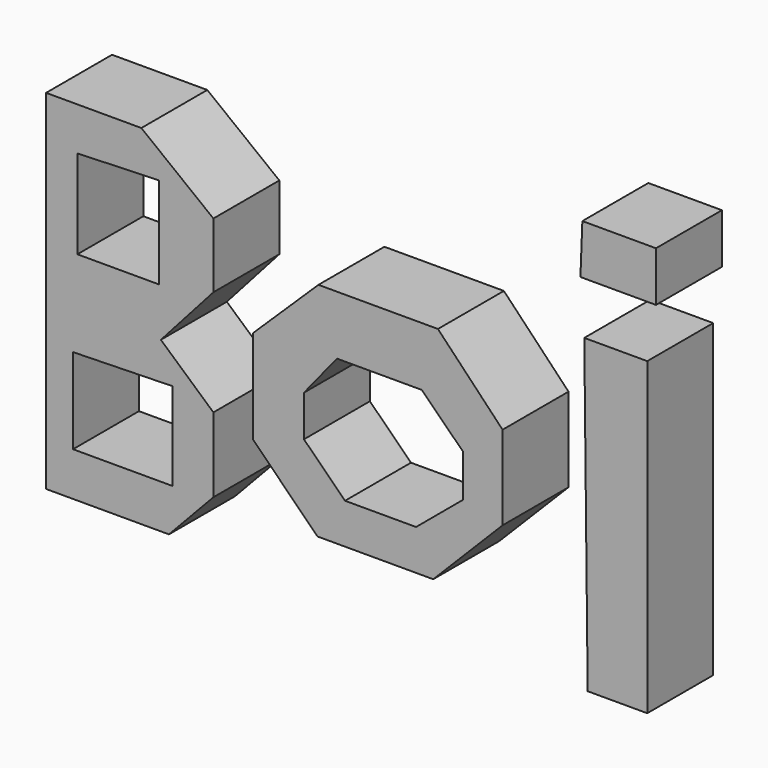
from build123d import *

# Parameters (mm, degrees)
F1_DEPTH = 50.8


with BuildPart() as f1:
    # F0 (on Front) → F1 (new body)
    with BuildSketch(Plane.XZ):
        Polygon((-44.395864, 110.989593), (-103.10623, 110.989578), (-103.10623, 0), (-32.36334, 0), (0, 36.321488), (0, 76.344237), align=None)
        Polygon((-83.812714, 29.666409), (-83.812714, 84.435098), (-33.400625, 86.094752), (-33.400625, 29.666409), align=None, mode=Mode.SUBTRACT)
        Polygon((-32.36334, 0), (-103.10623, 0), (-103.10623, -103.936017), (-27.384371, -103.936017), (0, -74.892029), (0, -28.836533), align=None)
        Polygon((-86.50966, -76.966554), (-86.50966, -24.272442), (-25.102347, -22.820249), (-25.102347, -76.966554), align=None, mode=Mode.SUBTRACT)
        Polygon((24.272472, -35.47515), (64.104259, -75.306907), (135.469496, -75.306907), (178.205669, -32.155782), (178.205669, 19.708484), (138.373911, 61.407328), (64.726621, 61.407328), (24.272472, 21.990478), align=None)
        Polygon((55.805951, 0), (76.136768, 25.102332), (128.415972, 25.102332), (153.725743, 0), (153.725743, -26.347026), (124.889195, -50.412059), (81.115723, -50.412059), (55.805951, -25.309741), align=None, mode=Mode.SUBTRACT)
        Polygon((267.367065, 85.909694), (228.564352, 85.909694), (230.653703, -105.118975), (267.367065, -105.118975), align=None)
        Polygon((272.739708, 148.889393), (227.370411, 148.889393), (226.176471, 118.145697), (272.739708, 118.145697), align=None)
    extrude(amount=F1_DEPTH)


solid = f1.part
